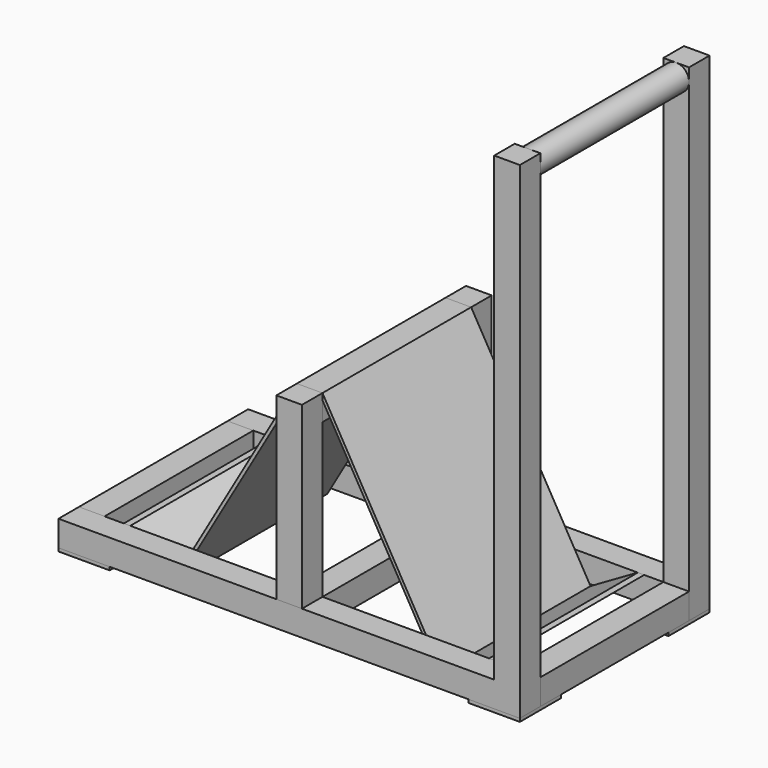
from build123d import *

# Parameters (mm, degrees)
F0_W      = 914.4
F0_H      = 50.8
F1_DEPTH  = 50.8
F2_W      = 50.8
F2_H      = 355.6
F3_DEPTH  = 50.8
F5_DEPTH  = 368.3
F6_W      = 50.8
F6_H      = 368.3
F7_DEPTH  = 50.8
F8_W      = 50.8
F8_H      = 50.8
F9_DEPTH  = 914.4
F10_W     = 50.8
F10_H     = 50.8
F11_DEPTH = 368.3
F12_W     = 50.8
F12_H     = 50.8
F13_DEPTH = 368.3
F14_W     = 50.8
F14_H     = 50.8
F15_DEPTH = 355.6
F17_W     = 50.8
F17_H     = 50.8
F18_DEPTH = 914.4
F19_W     = 50.8
F19_H     = 50.8
F20_DEPTH = 914.4
F21_R     = 25.4
F22_DEPTH = 368.3
F23_W     = 101.6
F23_H     = 101.6
F24_DEPTH = 6.35
F25_W     = 101.6
F25_H     = 101.6
F26_DEPTH = 6.35


with BuildPart() as f1:
    # F0 (on Front) → F1 (new body)
    with BuildSketch(Plane.XZ):
        Rectangle(F0_W, F0_H)
    extrude(amount=F1_DEPTH)

    # F17 (on face) → F18 (join)
    with BuildSketch(Plane.XY.offset(25.4)):
        with Locations((431.8, -25.4)):
            Rectangle(F17_W, F17_H)
    extrude(amount=F18_DEPTH)


with BuildPart() as f3:
    # F2 (on face) → F3 (new body)
    with BuildSketch(Plane.XZ.offset(50.8)):
        with Locations((0, 203.2)):
            Rectangle(F2_W, F2_H)
    extrude(amount=-F3_DEPTH)


with BuildPart() as f5:
    # F4 (on face) → F5 (new body)
    with BuildSketch(Plane(origin=(0, 0, 0), x_dir=(-1, 0, 0), z_dir=(0, 1, 0))):
        Polygon((261.9293167929, -28.6807941648), (25.4, 381), (19.900738686, 377.825), (259.6050554788, -37.3550554788), (368.3, 25.4), (355.6, 25.4), align=None)
    extrude(amount=F5_DEPTH)


with BuildPart() as f7:
    # F6 (on face) → F7 (new body)
    with BuildSketch(Plane.XY.offset(25.4)):
        with Locations((-431.8, 184.15)):
            Rectangle(F6_W, F6_H)
    extrude(amount=-F7_DEPTH)


with BuildPart() as f9:
    # F8 (on face) → F9 (new body)
    with BuildSketch(Plane(origin=(-457.2, 0, 0), x_dir=(0, -1, 0), z_dir=(-1, 0, 0))):
        with Locations((-393.7, 0)):
            Rectangle(F8_W, F8_H)
    extrude(amount=-F9_DEPTH)

    # F19 (on face) → F20 (join)
    with BuildSketch(Plane.XY.offset(25.4)):
        with Locations((431.8, 393.7)):
            Rectangle(F19_W, F19_H)
    extrude(amount=F20_DEPTH)


with BuildPart() as f11:
    # F10 (on face) → F11 (new body)
    with BuildSketch(Plane(origin=(0, 0, 0), x_dir=(-1, 0, 0), z_dir=(0, 1, 0))):
        Rectangle(F10_W, F10_H)
    extrude(amount=F11_DEPTH)


with BuildPart() as f13:
    # F12 (on face) → F13 (new body)
    with BuildSketch(Plane(origin=(0, 0, 0), x_dir=(-1, 0, 0), z_dir=(0, 1, 0))):
        with Locations((0, 355.6)):
            Rectangle(F12_W, F12_H)
    extrude(amount=F13_DEPTH)


with BuildPart() as f15:
    # F14 (on face) → F15 (new body)
    with BuildSketch(Plane.XY.offset(25.4)):
        with Locations((0, 393.7)):
            Rectangle(F14_W, F14_H)
    extrude(amount=F15_DEPTH)


with BuildPart() as f16_1:
    # F16: instance of F5
    add(f5.part.mirror(Plane.YZ))


with BuildPart() as f16_2:
    # F16: instance of F7
    add(f7.part.mirror(Plane.YZ))


with BuildPart() as f22:
    # F21 (on face) → F22 (new body)
    with BuildSketch(Plane.XZ.offset(-368.3)):
        with Locations((431.8, 914.4)):
            Circle(F21_R)
    extrude(amount=F22_DEPTH)


with BuildPart() as f24:
    # F23 (on face) → F24 (new body)
    with BuildSketch(Plane(origin=(0, 0, -25.4), x_dir=(1, 0, 0), z_dir=(0, 0, -1))):
        with Locations((-406.4, 0)):
            Rectangle(F23_W, F23_H)
    extrude(amount=F24_DEPTH)


with BuildPart() as f24b:
    # F23 (on face) → F24, piece 2 (new body)
    with BuildSketch(Plane(origin=(0, 0, -25.4), x_dir=(1, 0, 0), z_dir=(0, 0, -1))):
        with Locations((406.4, 0)):
            Rectangle(F23_W, F23_H)
    extrude(amount=F24_DEPTH)


with BuildPart() as f26:
    # F25 (on face) → F26 (new body)
    with BuildSketch(Plane(origin=(0, 0, -25.4), x_dir=(1, 0, 0), z_dir=(0, 0, -1))):
        with Locations((-406.4, -368.3)):
            Rectangle(F25_W, F25_H)
    extrude(amount=F26_DEPTH)


with BuildPart() as f26b:
    # F25 (on face) → F26, piece 2 (new body)
    with BuildSketch(Plane(origin=(0, 0, -25.4), x_dir=(1, 0, 0), z_dir=(0, 0, -1))):
        with Locations((406.4, -368.3)):
            Rectangle(F25_W, F25_H)
    extrude(amount=F26_DEPTH)


solid = Compound([f1.part, f3.part, f5.part, f7.part, f9.part, f11.part, f13.part, f15.part, f16_1.part, f16_2.part, f22.part, f24.part, f24b.part, f26.part, f26b.part])
